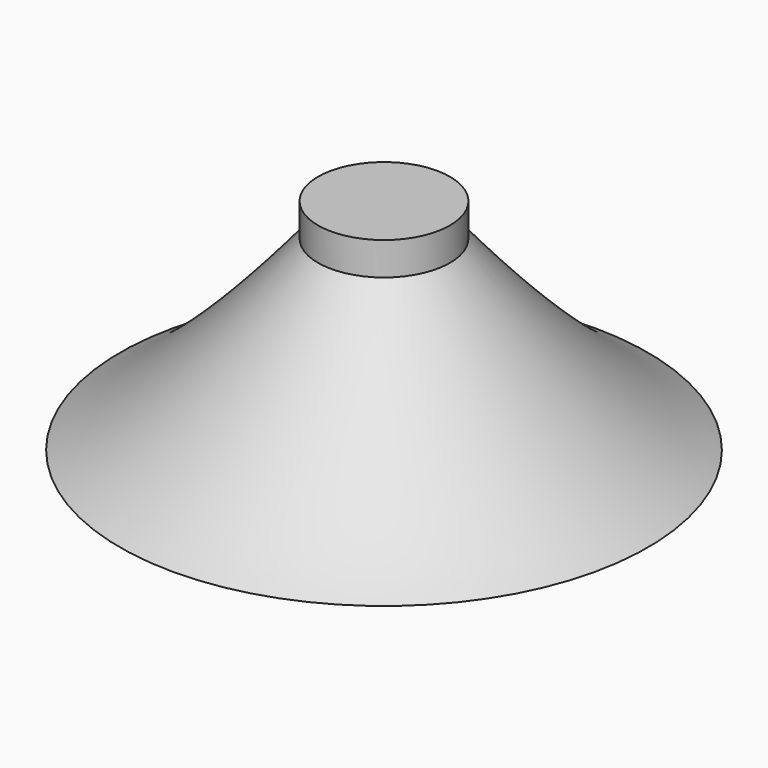
from build123d import *


with BuildPart() as part:
    # Sketch → Revolution (revolve)
    with BuildSketch(Plane.YZ):
        with BuildLine():
            add(Edge.make_bspline(
                [(30, 84.66453), (83.036507, 20), (120, 0)],
                knots=[0, 0, 0, 1, 1, 1], degree=2))
            Line((120, 0), (80, 0))
            add(Edge.make_bspline(
                [(80, 0), (50, 20), (0, 27.78453)],
                knots=[0, 0, 0, 1, 1, 1], degree=2))
            Line((0, 27.78453), (0, 99.66453))
            Line((0, 99.66453), (30, 99.66453))
            Line((30, 99.66453), (30, 84.66453))
        make_face()
    revolve(axis=Axis((0, 0, 0), (0, 0, 1)))


solid = part.part
